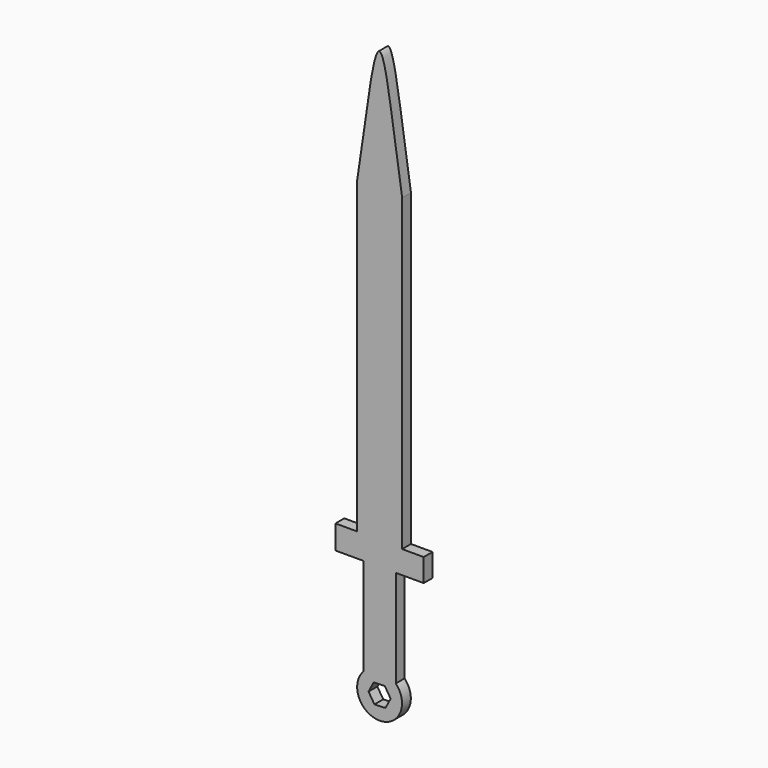
from build123d import *

# Parameters (mm, degrees)
PAD_DEPTH = 10


with BuildPart() as part:
    # Sketch → Pad (new body)
    with BuildSketch(Plane.XZ):
        with BuildLine():
            Line((-20.4562, -134.984811), (-20.4562, 144.525857))
            add(Edge.make_bspline(
                [(-20.4562, 144.525857), (-15.351442, 176.525857), (-9.682975, 223.163129), (-0.193928, 270.808012), (9.393321, 222.695651), (15.351442, 176.525857), (20.4562, 144.525857)],
                knots=[0, 0, 0, 0, 0.25, 0.5, 0.75, 1, 1, 1, 1], degree=3))
            Line((20.4562, 144.525857), (20.4562, -135.800149))
            Line((20.4562, -135.800149), (40, -135.800149))
            Line((40, -135.800149), (40, -156.629494))
            Line((40, -156.629494), (14.657939, -156.629494))
            Line((14.657939, -156.629494), (14.657939, -244.979341))
            ThreePointArc((14.657939, -244.979341), (0, -279.398631), (-14.657939, -244.979341))
            Line((-14.657939, -244.979341), (-14.657939, -156.629494))
            Line((-14.657939, -156.629494), (-40, -156.629494))
            Line((-40, -156.629494), (-40, -134.984811))
            Line((-40, -134.984811), (-20.4562, -134.984811))
        make_face()
        Polygon((5.352593, -267.547272), (10.019699, -258.672075), (4.667106, -250.192644), (-5.352593, -250.58841), (-10.019699, -259.463607), (-4.667106, -267.943038), align=None, mode=Mode.SUBTRACT)
    extrude(amount=PAD_DEPTH)


solid = part.part
